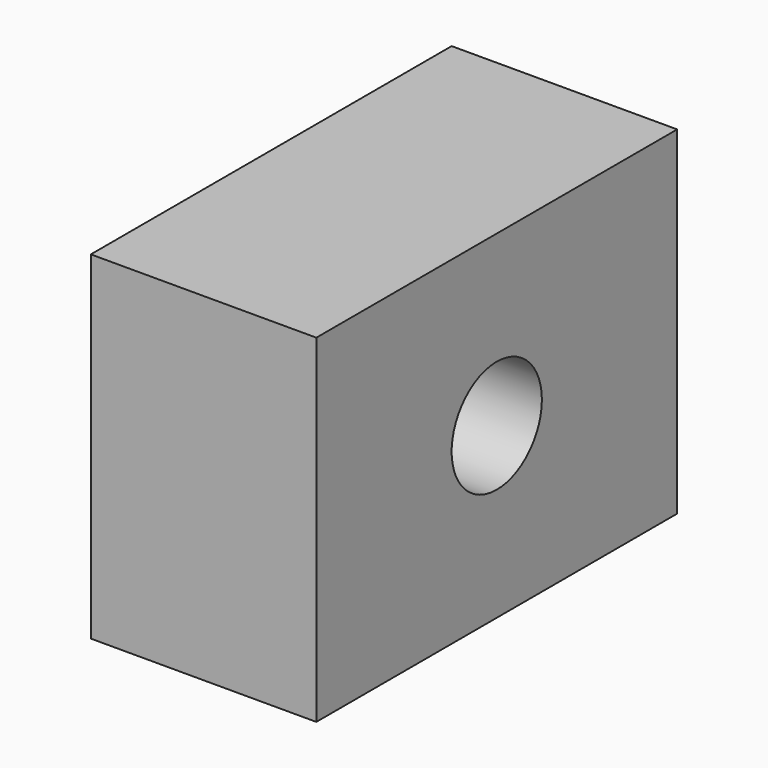
from build123d import *

# Parameters (mm, degrees)
F0_W     = 25.4
F0_H     = 19.05
F0_R     = 3.175
F1_DEPTH = 12.7


with BuildPart() as f1:
    # F0 (on Right) → F1 (new body)
    with BuildSketch(Plane.YZ):
        Rectangle(F0_W, F0_H)
        Circle(F0_R, mode=Mode.SUBTRACT)
    extrude(amount=F1_DEPTH)


solid = f1.part
